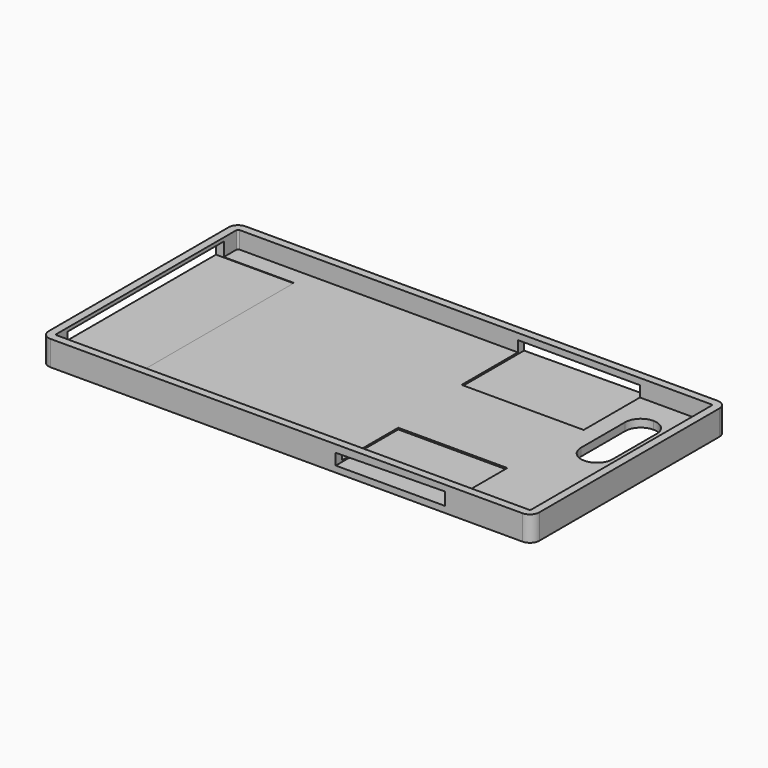
from build123d import *

# Parameters (mm, degrees)
F0_W      = 157
F0_H      = 78
F1_DEPTH  = 8
F2_R      = 3
F3_T      = -2.5
F5_DEPTH  = 25
F7_W      = 62.540936
F7_H      = 4.507454
F8_DEPTH  = 25
F11_DEPTH = 25
F12_DEPTH = 25


with BuildPart() as f1:
    # F0 (on Top) → F1 (new body)
    with BuildSketch(Plane.XY):
        with Locations((78.5, 39)):
            Rectangle(F0_W, F0_H)
    extrude(amount=F1_DEPTH)

    # F2
    f2_edges = [f1.edges().sort_by_distance(p)[0] for p in [
        (157, 0, 4),
        (157, 78, 4),
        (0, 78, 4),
        (0, 0, 4),
    ]]
    fillet(f2_edges, radius=F2_R)

    # F3
    f3_openings = [f1.faces().sort_by_distance(p)[0] for p in [
        (78.5, 39, 8),
    ]]
    offset(amount=F3_T, openings=f3_openings)

    # F4 (on face) → F5 (cut)
    with BuildSketch(Plane.XY.offset(2.5)):
        with BuildLine():
            ThreePointArc((146.744221, 62.751937), (145.279755, 66.287471), (141.744221, 67.751937))
            Line((141.744221, 67.751937), (141.66825, 67.751937))
            ThreePointArc((141.66825, 67.751937), (138.132716, 66.287471), (136.66825, 62.751937))
            Line((136.66825, 62.751937), (136.66825, 45.115006))
            ThreePointArc((136.66825, 45.115006), (138.132716, 41.579472), (141.66825, 40.115006))
            Line((141.66825, 40.115006), (141.744221, 40.115006))
            ThreePointArc((141.744221, 40.115006), (145.279755, 41.579472), (146.744221, 45.115006))
            Line((146.744221, 45.115006), (146.744221, 62.751937))
        make_face()
    extrude(amount=-F5_DEPTH, mode=Mode.SUBTRACT)

    # F7 (on face) → F8 (cut)
    with BuildSketch(Plane(origin=(0, 0, 0), x_dir=(0, -1, 0), z_dir=(-1, 0, 0))):
        with Locations((-38.633815, 4.610173)):
            Rectangle(F7_W, F7_H)
    extrude(amount=-F8_DEPTH, mode=Mode.SUBTRACT)

    # F10 (on face) → F11 (cut)
    with BuildSketch(Plane.XZ):
        Polygon((129.16705, 6.068889), (94.259493, 5.586785), (94.259493, 2.000924), (129.16705, 2.000924), align=None)
    extrude(amount=-F11_DEPTH, mode=Mode.SUBTRACT)

    # F9 (on face) → F12 (cut)
    with BuildSketch(Plane(origin=(0, 78, 0), x_dir=(-1, 0, 0), z_dir=(0, 1, 0))):
        Polygon((-131.193131, 2.239336), (-92.129149, 1.990521), (-92.129149, 5.971564), (-131.193131, 5.971564), align=None)
    extrude(amount=-F12_DEPTH, mode=Mode.SUBTRACT)


solid = f1.part
